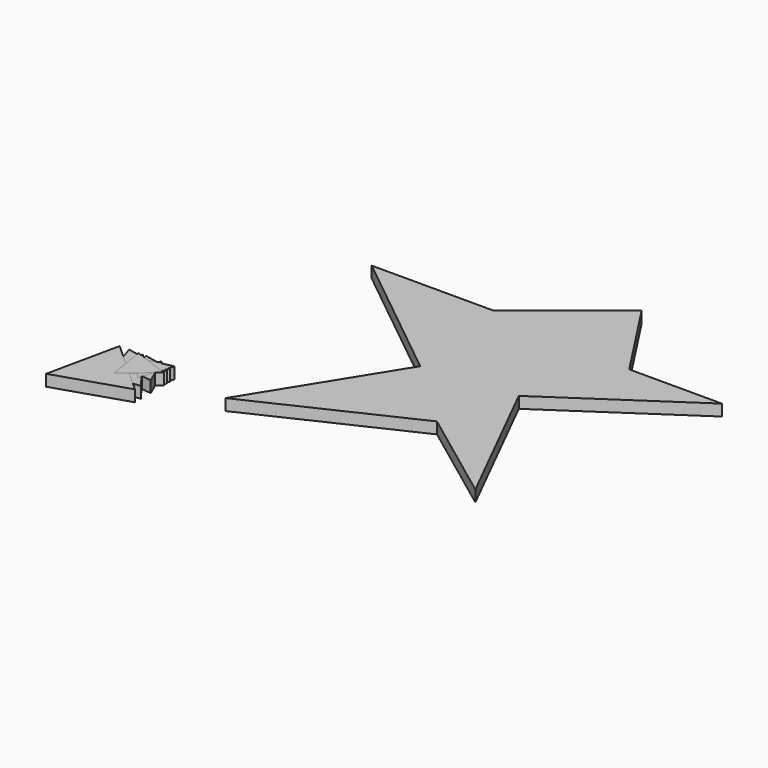
from build123d import *

# Parameters (mm, degrees)
PAD_DEPTH    = 10
PAD001_DEPTH = 10
PAD002_DEPTH = 10
PAD003_DEPTH = 10
PAD004_DEPTH = 10
PAD005_DEPTH = 10
PAD006_DEPTH = 10
PAD007_DEPTH = 10
PAD008_DEPTH = 10
PAD009_DEPTH = 10


with BuildPart() as body001:
    # Sketch → Pad (new body)
    with BuildSketch(Plane.XY):
        Polygon((0, 0), (45.987872, 5.648683), (18.102033, 42.651007), align=None)
    extrude(amount=PAD_DEPTH)


with BuildPart() as body001_1:
    # Body001 placement: moved
    add(body001.part.moved(Location((-45.987872, -42.651007, 0))))


with BuildPart() as body002:
    # Sketch001 → Pad001 (new body)
    with BuildSketch(Plane.XY):
        Polygon((0, 0), (-11.495134, 26.22936), (-28.462859, 3.159603), align=None)
    extrude(amount=PAD001_DEPTH)


with BuildPart() as body002_1:
    # Body002 placement: moved
    add(body002.part.moved(Location((0, -26.22936, 0))))


with BuildPart() as body003:
    # Sketch002 → Pad002 (new body)
    with BuildSketch(Plane.XY):
        Polygon((0, 0), (8.205842, -24.465275), (25.290471, -5.12617), align=None)
    extrude(amount=PAD002_DEPTH)


with BuildPart() as body003_1:
    # Body003 placement: moved
    add(body003.part.moved(Location((-25.290471, 0, 0))))


with BuildPart() as body004:
    # Sketch003 → Pad003 (new body)
    with BuildSketch(Plane.XY):
        Polygon((0, 0), (27.073405, 30.548265), (-12.918871, 38.720389), align=None)
    extrude(amount=PAD003_DEPTH)


with BuildPart() as body004_1:
    # Body004 placement: moved
    add(body004.part.moved(Location((-27.073405, -38.720389, 0))))


with BuildPart() as body005:
    # Sketch004 → Pad004 (new body)
    with BuildSketch(Plane.XY):
        Polygon((0, 0), (-29.562009, -6.185213), (-9.424453, -28.694057), align=None)
    extrude(amount=PAD004_DEPTH)


with BuildPart() as body006:
    # Sketch005 → Pad005 (new body)
    with BuildSketch(Plane.XY):
        Polygon((0, 0), (-13.660303, -63.548782), (48.204708, -43.604561), align=None)
    extrude(amount=PAD005_DEPTH)


with BuildPart() as body006_1:
    # Body006 placement: moved
    add(body006.part.moved(Location((-48.204708, 0, 0))))


with BuildPart() as body007:
    # Sketch006 → Pad006 (new body)
    with BuildSketch(Plane.XY):
        Polygon((0, 0), (-31.835562, 11.811761), (-26.147066, -21.664525), align=None)
    extrude(amount=PAD006_DEPTH)


with BuildPart() as body007_1:
    # Body007 placement: moved
    add(body007.part.moved(Location((0, -11.811761, 0))))


with BuildPart() as body008:
    # Sketch007 → Pad007 (new body)
    with BuildSketch(Plane.XY):
        Polygon((0, 0), (-31.835562, 11.811761), (-26.147066, -21.664525), align=None)
    extrude(amount=PAD007_DEPTH)


with BuildPart() as body008_1:
    # Body008 placement: moved
    add(body008.part.moved(Location((0, -11.811761, 0))))


with BuildPart() as body009:
    # Sketch008 → Pad008 (new body)
    with BuildSketch(Plane.XY):
        Polygon((0, 0), (-31.835562, 11.811761), (-26.147066, -21.664525), align=None)
    extrude(amount=PAD008_DEPTH)


with BuildPart() as body009_1:
    # Body009 placement: moved
    add(body009.part.moved(Location((0, -11.811761, 0))))


with BuildPart() as board_body:
    # Sketch009 → Pad009 (new body)
    with BuildSketch(Plane.XY):
        Polygon((-38.693619, 95.521584), (-117.703079, 32.091431), (-224.532791, 32.091431), (-105.462189, -63.61018), (-180.020416, -183.79361), (-45.370419, -120.363464), (38.090302, -182.680801), (-25.339891, -55.820522), (90.392357, 22.076147), (9.157263, 22.076147), align=None)
    extrude(amount=-PAD009_DEPTH)


with BuildPart() as board_body_1:
    # Body placement: moved
    add(board_body.part.moved(Location((224.532791, 183.79361, 0))))


solid = Compound([body001_1.part, body002_1.part, body003_1.part, body004_1.part, body005.part, body006_1.part, body007_1.part, body008_1.part, body009_1.part, board_body_1.part])
